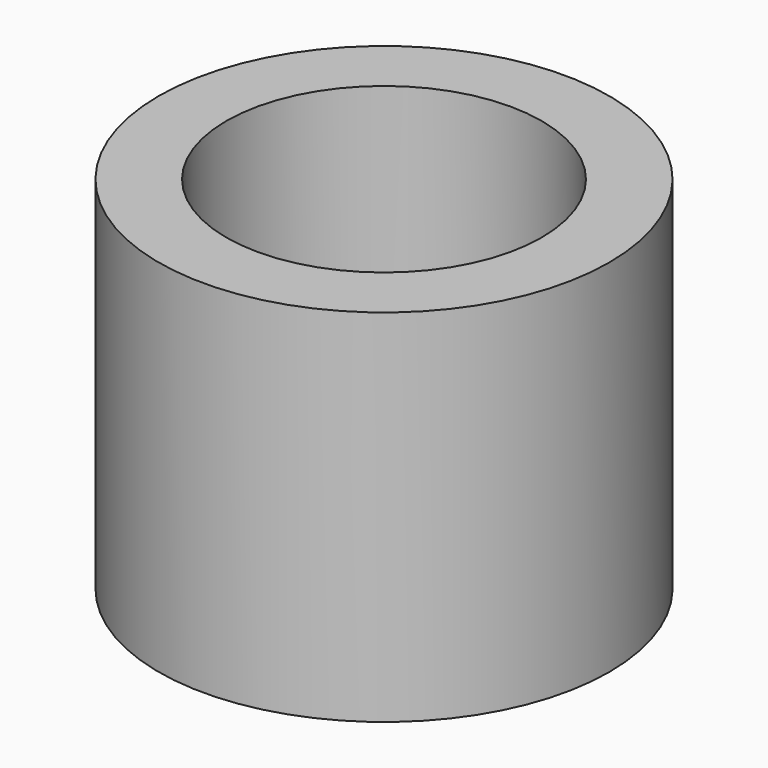
from build123d import *

# Parameters (mm, degrees)
SKETCH_R     = 2.5
PAD_DEPTH    = 4
SKETCH001_R  = 1.75
POCKET_DEPTH = 5


with BuildPart() as part:
    # Sketch → Pad (new body)
    with BuildSketch(Plane.XY):
        Circle(SKETCH_R)
    extrude(amount=PAD_DEPTH)

    # Sketch001 (on Face3 of Pad) → Pocket (cut)
    with BuildSketch(Plane.XY.offset(4)):
        Circle(SKETCH001_R)
    extrude(amount=-POCKET_DEPTH, mode=Mode.SUBTRACT)


solid = part.part
